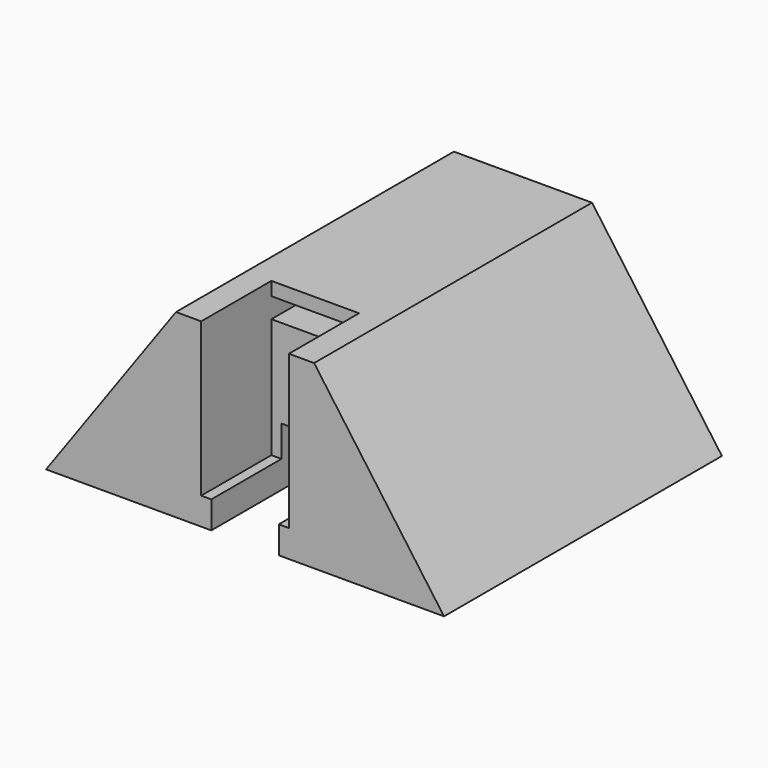
from build123d import *

# Parameters (mm, degrees)
F0_W     = 59
F0_H     = 51.5
F1_DEPTH = 26.8
F3_DEPTH = 55
F4_W     = 10
F4_H     = 8.67
F5_DEPTH = 51.501
F7_DEPTH = 13
F8_W     = 13
F8_H     = 3
F9_DEPTH = 5


with BuildPart() as f1:
    # F0 (on Top) → F1 (new body)
    with BuildSketch(Plane.XY):
        Rectangle(F0_W, F0_H)
    extrude(amount=F1_DEPTH)

    # F2 (on face) → F3 (cut)
    with BuildSketch(Plane.XZ.offset(25.75)):
        Polygon((-29.5, 26.8), (-29.5, 0), (-10.242246, 26.8), align=None)
        Polygon((10.242246, 26.8), (29.5, 0), (29.5, 26.8), align=None)
    extrude(amount=-F3_DEPTH, mode=Mode.SUBTRACT)

    # F4 (on face) → F5 (cut, through all)
    with BuildSketch(Plane.XZ.offset(25.75)):
        with Locations((0, 4.335)):
            Rectangle(F4_W, F4_H)
    extrude(amount=-F5_DEPTH, mode=Mode.SUBTRACT)

    # F6 (on face) → F7 (cut)
    with BuildSketch(Plane.XZ.offset(25.75)):
        Polygon((6.499901, 26.8), (-6.500099, 26.8), (-6.500099, 4.05), (-5, 4.05), (-5, 8.67), (5, 8.67), (5, 4.05), (6.499901, 4.05), align=None)
    extrude(amount=-F7_DEPTH, mode=Mode.SUBTRACT)

    # F8 (on face) → F9 (cut)
    with BuildSketch(Plane.XZ.offset(12.75)):
        with Locations((-9.9e-05, 23.3)):
            Rectangle(F8_W, F8_H)
    extrude(amount=-F9_DEPTH, mode=Mode.SUBTRACT)


solid = f1.part
